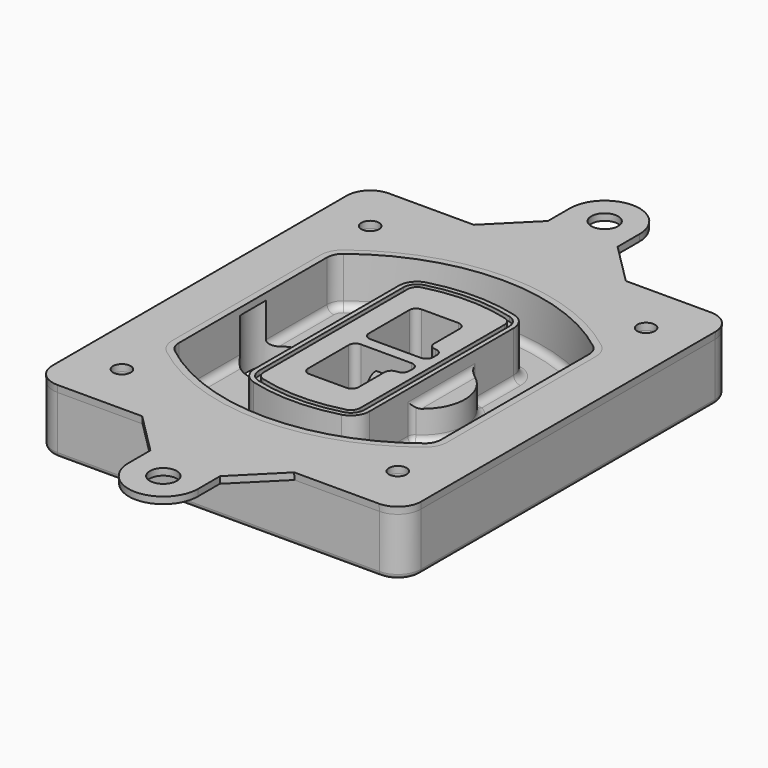
from build123d import *

# Parameters (mm, degrees)
F0_R      = 4
F1_DEPTH  = 25
F2_DEPTH  = 3
F3_DEPTH  = 18
F5_DEPTH  = 21
F6_DEPTH  = 2
F8_DEPTH  = 20
F9_DEPTH  = 16
F10_DEPTH = 25
F7_R      = 6
F7_R_2    = 4
F11_DEPTH = 6
F13_DEPTH = 9
F14_R     = 3
F15_R     = 2
F16_R     = 6
F16_R_2   = 4
F17_DEPTH = 3
F17_TAPER = -3


with BuildPart() as f1:
    # F0 (on Top) → F1 (new body)
    with BuildSketch(Plane.XY):
        with BuildLine():
            ThreePointArc((-80, -80), (-77.0710678119, -87.0710678119), (-70, -90))
            Line((-70, -90), (70, -90))
            ThreePointArc((70, -90), (77.0710678119, -87.0710678119), (80, -80))
            Line((80, -80), (80, 80))
            ThreePointArc((80, 80), (77.0710678119, 87.0710678119), (70, 90))
            Line((70, 90), (-70, 90))
            ThreePointArc((-70, 90), (-77.0710678119, 87.0710678119), (-80, 80))
            Line((-80, 80), (-80, -80))
        make_face()
        with Locations((-60, -67.5)):
            Circle(F0_R, mode=Mode.SUBTRACT)
        with Locations((60, -67.5)):
            Circle(F0_R, mode=Mode.SUBTRACT)
        with Locations((-60, 67.5)):
            Circle(F0_R, mode=Mode.SUBTRACT)
        with BuildLine():
            ThreePointArc((-64, 40.2934422872), (-62.5820384798, 46.4328484224), (-58.6153846154, 51.3286200352))
            ThreePointArc((-58.6153846154, 51.3286200352), (0, 71.5), (58.6153846154, 51.3286200352))
            ThreePointArc((58.6153846154, 51.3286200352), (62.5820384798, 46.4328484224), (64, 40.2934422872))
            Line((64, 40.2934422872), (64, -40.2934422872))
            ThreePointArc((64, -40.2934422872), (62.5820384798, -46.4328484224), (58.6153846154, -51.3286200352))
            ThreePointArc((58.6153846154, -51.3286200352), (0, -71.5), (-58.6153846154, -51.3286200352))
            ThreePointArc((-58.6153846154, -51.3286200352), (-62.5820384798, -46.4328484224), (-64, -40.2934422872))
            Line((-64, -40.2934422872), (-64, 40.2934422872))
        make_face(mode=Mode.SUBTRACT)
        with Locations((60, 67.5)):
            Circle(F0_R, mode=Mode.SUBTRACT)
        with BuildLine():
            ThreePointArc((58.6153846154, 51.3286200352), (0, 71.5), (-58.6153846154, 51.3286200352))
            ThreePointArc((-58.6153846154, 51.3286200352), (-62.5820384798, 46.4328484224), (-64, 40.2934422872))
            Line((-64, 40.2934422872), (-64, -40.2934422872))
            ThreePointArc((-64, -40.2934422872), (-62.5820384798, -46.4328484224), (-58.6153846154, -51.3286200352))
            ThreePointArc((-58.6153846154, -51.3286200352), (0, -71.5), (58.6153846154, -51.3286200352))
            ThreePointArc((58.6153846154, -51.3286200352), (62.5820384798, -46.4328484224), (64, -40.2934422872))
            Line((64, -40.2934422872), (64, 40.2934422872))
            ThreePointArc((64, 40.2934422872), (62.5820384798, 46.4328484224), (58.6153846154, 51.3286200352))
        make_face()
        with BuildLine():
            Line((-60, -40.2934422872), (-60, 40.2934422872))
            ThreePointArc((-60, 40.2934422872), (-58.9871703427, 44.6787323838), (-56.1538461538, 48.1757121072))
            ThreePointArc((-56.1538461538, 48.1757121072), (0, 67.5), (56.1538461538, 48.1757121072))
            ThreePointArc((56.1538461538, 48.1757121072), (58.9871703427, 44.6787323838), (60, 40.2934422872))
            Line((60, 40.2934422872), (60, -40.2934422872))
            ThreePointArc((60, -40.2934422872), (58.9871703427, -44.6787323838), (56.1538461538, -48.1757121072))
            ThreePointArc((56.1538461538, -48.1757121072), (0, -67.5), (-56.1538461538, -48.1757121072))
            ThreePointArc((-56.1538461538, -48.1757121072), (-58.9871703427, -44.6787323838), (-60, -40.2934422872))
        make_face(mode=Mode.SUBTRACT)
        with BuildLine():
            ThreePointArc((-56.1538461538, 48.1757121072), (-58.9871703427, 44.6787323838), (-60, 40.2934422872))
            Line((-60, 40.2934422872), (-60, -40.2934422872))
            ThreePointArc((-60, -40.2934422872), (-58.9871703427, -44.6787323838), (-56.1538461538, -48.1757121072))
            ThreePointArc((-56.1538461538, -48.1757121072), (0, -67.5), (56.1538461538, -48.1757121072))
            ThreePointArc((56.1538461538, -48.1757121072), (58.9871703427, -44.6787323838), (60, -40.2934422872))
            Line((60, -40.2934422872), (60, 40.2934422872))
            ThreePointArc((60, 40.2934422872), (58.9871703427, 44.6787323838), (56.1538461538, 48.1757121072))
            ThreePointArc((56.1538461538, 48.1757121072), (0, 67.5), (-56.1538461538, 48.1757121072))
        make_face()
        with BuildLine():
            ThreePointArc((54.3076923077, 45.8110311612), (56.2910192399, 43.3631453548), (57, 40.2934422872))
            Line((57, 40.2934422872), (57, -40.2934422872))
            ThreePointArc((57, -40.2934422872), (56.2910192399, -43.3631453548), (54.3076923077, -45.8110311612))
            ThreePointArc((54.3076923077, -45.8110311612), (0, -64.5), (-54.3076923077, -45.8110311612))
            ThreePointArc((-54.3076923077, -45.8110311612), (-56.2910192399, -43.3631453548), (-57, -40.2934422872))
            Line((-57, -40.2934422872), (-57, 40.2934422872))
            ThreePointArc((-57, 40.2934422872), (-56.2910192399, 43.3631453548), (-54.3076923077, 45.8110311612))
            ThreePointArc((-54.3076923077, 45.8110311612), (0, 64.5), (54.3076923077, 45.8110311612))
        make_face(mode=Mode.SUBTRACT)
        with BuildLine():
            Line((57, -40.2934422872), (57, 40.2934422872))
            ThreePointArc((57, 40.2934422872), (56.2910192399, 43.3631453548), (54.3076923077, 45.8110311612))
            ThreePointArc((54.3076923077, 45.8110311612), (0, 64.5), (-54.3076923077, 45.8110311612))
            ThreePointArc((-54.3076923077, 45.8110311612), (-56.2910192399, 43.3631453548), (-57, 40.2934422872))
            Line((-57, 40.2934422872), (-57, -40.2934422872))
            ThreePointArc((-57, -40.2934422872), (-56.2910192399, -43.3631453548), (-54.3076923077, -45.8110311612))
            ThreePointArc((-54.3076923077, -45.8110311612), (0, -64.5), (54.3076923077, -45.8110311612))
            ThreePointArc((54.3076923077, -45.8110311612), (56.2910192399, -43.3631453548), (57, -40.2934422872))
        make_face()
    extrude(amount=-F1_DEPTH)

    # F0 (on Top) → F2 (join)
    with BuildSketch(Plane.XY):
        with BuildLine():
            ThreePointArc((-56.1538461538, 48.1757121072), (-58.9871703427, 44.6787323838), (-60, 40.2934422872))
            Line((-60, 40.2934422872), (-60, -40.2934422872))
            ThreePointArc((-60, -40.2934422872), (-58.9871703427, -44.6787323838), (-56.1538461538, -48.1757121072))
            ThreePointArc((-56.1538461538, -48.1757121072), (0, -67.5), (56.1538461538, -48.1757121072))
            ThreePointArc((56.1538461538, -48.1757121072), (58.9871703427, -44.6787323838), (60, -40.2934422872))
            Line((60, -40.2934422872), (60, 40.2934422872))
            ThreePointArc((60, 40.2934422872), (58.9871703427, 44.6787323838), (56.1538461538, 48.1757121072))
            ThreePointArc((56.1538461538, 48.1757121072), (0, 67.5), (-56.1538461538, 48.1757121072))
        make_face()
        with BuildLine():
            ThreePointArc((54.3076923077, 45.8110311612), (56.2910192399, 43.3631453548), (57, 40.2934422872))
            Line((57, 40.2934422872), (57, -40.2934422872))
            ThreePointArc((57, -40.2934422872), (56.2910192399, -43.3631453548), (54.3076923077, -45.8110311612))
            ThreePointArc((54.3076923077, -45.8110311612), (0, -64.5), (-54.3076923077, -45.8110311612))
            ThreePointArc((-54.3076923077, -45.8110311612), (-56.2910192399, -43.3631453548), (-57, -40.2934422872))
            Line((-57, -40.2934422872), (-57, 40.2934422872))
            ThreePointArc((-57, 40.2934422872), (-56.2910192399, 43.3631453548), (-54.3076923077, 45.8110311612))
            ThreePointArc((-54.3076923077, 45.8110311612), (0, 64.5), (54.3076923077, 45.8110311612))
        make_face(mode=Mode.SUBTRACT)
    extrude(amount=F2_DEPTH)

    # F0 (on Top) → F3 (cut)
    with BuildSketch(Plane.XY):
        with BuildLine():
            Line((57, -40.2934422872), (57, 40.2934422872))
            ThreePointArc((57, 40.2934422872), (56.2910192399, 43.3631453548), (54.3076923077, 45.8110311612))
            ThreePointArc((54.3076923077, 45.8110311612), (0, 64.5), (-54.3076923077, 45.8110311612))
            ThreePointArc((-54.3076923077, 45.8110311612), (-56.2910192399, 43.3631453548), (-57, 40.2934422872))
            Line((-57, 40.2934422872), (-57, -40.2934422872))
            ThreePointArc((-57, -40.2934422872), (-56.2910192399, -43.3631453548), (-54.3076923077, -45.8110311612))
            ThreePointArc((-54.3076923077, -45.8110311612), (0, -64.5), (54.3076923077, -45.8110311612))
            ThreePointArc((54.3076923077, -45.8110311612), (56.2910192399, -43.3631453548), (57, -40.2934422872))
        make_face()
    extrude(amount=-F3_DEPTH, mode=Mode.SUBTRACT)

    # F4 (on face) → F5 (join, through all)
    with BuildSketch(Plane.XY.offset(3)):
        with BuildLine():
            ThreePointArc((-25, -39.2465276821), (-23.3511545998, -44.1109737193), (-19.0842911877, -46.9702398883))
            ThreePointArc((-19.0842911877, -46.9702398883), (0, -49.5), (19.0842911877, -46.9702398883))
            ThreePointArc((19.0842911877, -46.9702398883), (23.3511545998, -44.1109737193), (25, -39.2465276821))
            Line((25, -39.2465276821), (25, 39.2465276821))
            ThreePointArc((25, 39.2465276821), (23.3511545998, 44.1109737193), (19.0842911877, 46.9702398883))
            ThreePointArc((19.0842911877, 46.9702398883), (0, 49.5), (-19.0842911877, 46.9702398883))
            ThreePointArc((-19.0842911877, 46.9702398883), (-23.3511545998, 44.1109737193), (-25, 39.2465276821))
            Line((-25, 39.2465276821), (-25, -39.2465276821))
        make_face()
        with BuildLine():
            ThreePointArc((18.5632183908, 45.0393118368), (21.7633659499, 42.89486221), (23, 39.2465276821))
            Line((23, 39.2465276821), (23, -39.2465276821))
            ThreePointArc((23, -39.2465276821), (21.7633659499, -42.89486221), (18.5632183908, -45.0393118368))
            ThreePointArc((18.5632183908, -45.0393118368), (0, -47.5), (-18.5632183908, -45.0393118368))
            ThreePointArc((-18.5632183908, -45.0393118368), (-21.7633659499, -42.89486221), (-23, -39.2465276821))
            Line((-23, -39.2465276821), (-23, 39.2465276821))
            ThreePointArc((-23, 39.2465276821), (-21.7633659499, 42.89486221), (-18.5632183908, 45.0393118368))
            ThreePointArc((-18.5632183908, 45.0393118368), (0, 47.5), (18.5632183908, 45.0393118368))
        make_face(mode=Mode.SUBTRACT)
        with BuildLine():
            Line((23, -39.2465276821), (23, 39.2465276821))
            ThreePointArc((23, 39.2465276821), (21.7633659499, 42.89486221), (18.5632183908, 45.0393118368))
            ThreePointArc((18.5632183908, 45.0393118368), (0, 47.5), (-18.5632183908, 45.0393118368))
            ThreePointArc((-18.5632183908, 45.0393118368), (-21.7633659499, 42.89486221), (-23, 39.2465276821))
            Line((-23, 39.2465276821), (-23, -39.2465276821))
            ThreePointArc((-23, -39.2465276821), (-21.7633659499, -42.89486221), (-18.5632183908, -45.0393118368))
            ThreePointArc((-18.5632183908, -45.0393118368), (0, -47.5), (18.5632183908, -45.0393118368))
            ThreePointArc((18.5632183908, -45.0393118368), (21.7633659499, -42.89486221), (23, -39.2465276821))
        make_face()
        with BuildLine():
            ThreePointArc((18.0421455939, 43.1083837852), (20.1755772999, 41.6787507007), (21, 39.2465276821))
            Line((21, 39.2465276821), (21, -39.2465276821))
            ThreePointArc((21, -39.2465276821), (20.1755772999, -41.6787507007), (18.0421455939, -43.1083837852))
            ThreePointArc((18.0421455939, -43.1083837852), (0, -45.5), (-18.0421455939, -43.1083837852))
            ThreePointArc((-18.0421455939, -43.1083837852), (-20.1755772999, -41.6787507007), (-21, -39.2465276821))
            Line((-21, -39.2465276821), (-21, 39.2465276821))
            ThreePointArc((-21, 39.2465276821), (-20.1755772999, 41.6787507007), (-18.0421455939, 43.1083837852))
            ThreePointArc((-18.0421455939, 43.1083837852), (0, 45.5), (18.0421455939, 43.1083837852))
        make_face(mode=Mode.SUBTRACT)
        with BuildLine():
            Line((21, -39.2465276821), (21, 39.2465276821))
            ThreePointArc((21, 39.2465276821), (20.1755772999, 41.6787507007), (18.0421455939, 43.1083837852))
            ThreePointArc((18.0421455939, 43.1083837852), (0, 45.5), (-18.0421455939, 43.1083837852))
            ThreePointArc((-18.0421455939, 43.1083837852), (-20.1755772999, 41.6787507007), (-21, 39.2465276821))
            Line((-21, 39.2465276821), (-21, -39.2465276821))
            ThreePointArc((-21, -39.2465276821), (-20.1755772999, -41.6787507007), (-18.0421455939, -43.1083837852))
            ThreePointArc((-18.0421455939, -43.1083837852), (0, -45.5), (18.0421455939, -43.1083837852))
            ThreePointArc((18.0421455939, -43.1083837852), (20.1755772999, -41.6787507007), (21, -39.2465276821))
        make_face()
        with BuildLine():
            Line((-8, -2.5), (14, -2.5))
            ThreePointArc((14, -2.5), (16.1213203436, -3.3786796564), (17, -5.5))
            Line((17, -5.5), (17, -7.5))
            ThreePointArc((17, -7.5), (16.1213203436, -9.6213203436), (14, -10.5))
            ThreePointArc((14, -10.5), (11.8786796564, -11.3786796564), (11, -13.5))
            Line((11, -13.5), (11, -27.5))
            ThreePointArc((11, -27.5), (10.1213203436, -29.6213203436), (8, -30.5))
            Line((8, -30.5), (-8, -30.5))
            ThreePointArc((-8, -30.5), (-10.1213203436, -29.6213203436), (-11, -27.5))
            Line((-11, -27.5), (-11, -5.5))
            ThreePointArc((-11, -5.5), (-10.1213203436, -3.3786796564), (-8, -2.5))
        make_face(mode=Mode.SUBTRACT)
        with BuildLine():
            ThreePointArc((-8, 2.5), (-10.1213203436, 3.3786796564), (-11, 5.5))
            Line((-11, 5.5), (-11, 27.5))
            ThreePointArc((-11, 27.5), (-10.1213203436, 29.6213203436), (-8, 30.5))
            Line((-8, 30.5), (8, 30.5))
            ThreePointArc((8, 30.5), (10.1213203436, 29.6213203436), (11, 27.5))
            Line((11, 27.5), (11, 13.5))
            ThreePointArc((11, 13.5), (11.8786796564, 11.3786796564), (14, 10.5))
            ThreePointArc((14, 10.5), (16.1213203436, 9.6213203436), (17, 7.5))
            Line((17, 7.5), (17, 5.5))
            ThreePointArc((17, 5.5), (16.1213203436, 3.3786796564), (14, 2.5))
            Line((14, 2.5), (-8, 2.5))
        make_face(mode=Mode.SUBTRACT)
    extrude(amount=-F5_DEPTH)

    # F4 (on face) → F6 (cut)
    with BuildSketch(Plane.XY.offset(3)):
        with BuildLine():
            Line((23, -39.2465276821), (23, 39.2465276821))
            ThreePointArc((23, 39.2465276821), (21.7633659499, 42.89486221), (18.5632183908, 45.0393118368))
            ThreePointArc((18.5632183908, 45.0393118368), (0, 47.5), (-18.5632183908, 45.0393118368))
            ThreePointArc((-18.5632183908, 45.0393118368), (-21.7633659499, 42.89486221), (-23, 39.2465276821))
            Line((-23, 39.2465276821), (-23, -39.2465276821))
            ThreePointArc((-23, -39.2465276821), (-21.7633659499, -42.89486221), (-18.5632183908, -45.0393118368))
            ThreePointArc((-18.5632183908, -45.0393118368), (0, -47.5), (18.5632183908, -45.0393118368))
            ThreePointArc((18.5632183908, -45.0393118368), (21.7633659499, -42.89486221), (23, -39.2465276821))
        make_face()
        with BuildLine():
            ThreePointArc((18.0421455939, 43.1083837852), (20.1755772999, 41.6787507007), (21, 39.2465276821))
            Line((21, 39.2465276821), (21, -39.2465276821))
            ThreePointArc((21, -39.2465276821), (20.1755772999, -41.6787507007), (18.0421455939, -43.1083837852))
            ThreePointArc((18.0421455939, -43.1083837852), (0, -45.5), (-18.0421455939, -43.1083837852))
            ThreePointArc((-18.0421455939, -43.1083837852), (-20.1755772999, -41.6787507007), (-21, -39.2465276821))
            Line((-21, -39.2465276821), (-21, 39.2465276821))
            ThreePointArc((-21, 39.2465276821), (-20.1755772999, 41.6787507007), (-18.0421455939, 43.1083837852))
            ThreePointArc((-18.0421455939, 43.1083837852), (0, 45.5), (18.0421455939, 43.1083837852))
        make_face(mode=Mode.SUBTRACT)
    extrude(amount=-F6_DEPTH, mode=Mode.SUBTRACT)

    # F7 (on face) → F8 (join)
    with BuildSketch(Plane(origin=(0, 0, -25), x_dir=(1, 0, 0), z_dir=(0, 0, -1))):
        with BuildLine():
            ThreePointArc((3.28842436, 0), (16.7567035675, 13.4682792075), (30.224982775, 0))
            Line((30.224982775, 0), (35.224982775, 0))
            ThreePointArc((35.224982775, 0), (16.7567035675, 18.4682792075), (-1.71157564, 0))
            Line((-1.71157564, 0), (3.28842436, 0))
        make_face()
        with BuildLine():
            Line((3.28842436, 0), (30.224982775, 0))
            ThreePointArc((30.224982775, 0), (16.7567035675, 13.4682792075), (3.28842436, 0))
        make_face()
        with BuildLine():
            ThreePointArc((3.28842436, 0), (16.7567035675, -13.4682792075), (30.224982775, 0))
            Line((30.224982775, 0), (3.28842436, 0))
        make_face()
        with BuildLine():
            Line((35.224982775, 0), (30.224982775, 0))
            ThreePointArc((30.224982775, 0), (16.7567035675, -13.4682792075), (3.28842436, 0))
            Line((3.28842436, 0), (-1.71157564, 0))
            ThreePointArc((-1.71157564, 0), (16.7567035675, -18.4682792075), (35.224982775, 0))
        make_face()
    extrude(amount=-F8_DEPTH)

    # F7 (on face) → F9 (cut)
    with BuildSketch(Plane(origin=(0, 0, -25), x_dir=(1, 0, 0), z_dir=(0, 0, -1))):
        with BuildLine():
            Line((3.28842436, 0), (30.224982775, 0))
            ThreePointArc((30.224982775, 0), (16.7567035675, 13.4682792075), (3.28842436, 0))
        make_face()
        with BuildLine():
            ThreePointArc((3.28842436, 0), (16.7567035675, -13.4682792075), (30.224982775, 0))
            Line((30.224982775, 0), (3.28842436, 0))
        make_face()
    extrude(amount=-F9_DEPTH, mode=Mode.SUBTRACT)

    # F7 (on face) → F10 (cut)
    with BuildSketch(Plane(origin=(0, 0, -25), x_dir=(1, 0, 0), z_dir=(0, 0, -1))):
        with BuildLine():
            Line((-59.0318229325, 0), (-32.0952645175, 0))
            ThreePointArc((-32.0952645175, 0), (-45.563543725, 13.4682792075), (-59.0318229325, 0))
        make_face()
        with BuildLine():
            ThreePointArc((-59.0318229325, 0), (-45.563543725, -13.4682792075), (-32.0952645175, 0))
            Line((-32.0952645175, 0), (-59.0318229325, 0))
        make_face()
    extrude(amount=-F10_DEPTH, mode=Mode.SUBTRACT)

    # F7 (on face) → F11 (cut)
    with BuildSketch(Plane(origin=(0, 0, -25), x_dir=(1, 0, 0), z_dir=(0, 0, -1))):
        with Locations((60, -67.5)):
            Circle(F7_R)
        with Locations((60, -67.5)):
            Circle(F7_R_2, mode=Mode.SUBTRACT)
        with Locations((60, -67.5)):
            Circle(F7_R)
        with Locations((60, -67.5)):
            Circle(F7_R_2, mode=Mode.SUBTRACT)
        with Locations((-60, -67.5)):
            Circle(F7_R)
        with Locations((-60, -67.5)):
            Circle(F7_R_2, mode=Mode.SUBTRACT)
        with Locations((-60, -67.5)):
            Circle(F7_R)
        with Locations((-60, -67.5)):
            Circle(F7_R_2, mode=Mode.SUBTRACT)
        with Locations((-60, 67.5)):
            Circle(F7_R)
        with Locations((-60, 67.5)):
            Circle(F7_R_2, mode=Mode.SUBTRACT)
        with Locations((-60, 67.5)):
            Circle(F7_R)
        with Locations((-60, 67.5)):
            Circle(F7_R_2, mode=Mode.SUBTRACT)
        with Locations((60, 67.5)):
            Circle(F7_R)
        with Locations((60, 67.5)):
            Circle(F7_R_2, mode=Mode.SUBTRACT)
        with Locations((60, 67.5)):
            Circle(F7_R)
        with Locations((60, 67.5)):
            Circle(F7_R_2, mode=Mode.SUBTRACT)
    extrude(amount=-F11_DEPTH, mode=Mode.SUBTRACT)

    # F12 (on face) → F13 (cut, through all)
    with BuildSketch(Plane(origin=(0, 0, -9), x_dir=(1, 0, 0), z_dir=(0, 0, -1))):
        with BuildLine():
            Line((11, 13.5), (11, 17.5481537753))
            ThreePointArc((11, 17.5481537753), (2.5696536419, 11.8239143813), (-1.5415842455, 2.5))
            Line((-1.5415842455, 2.5), (3.5224848595, 2.5))
            ThreePointArc((3.5224848595, 2.5), (6.1857188154, 8.3455872281), (11.2536447004, 12.2927168648))
            ThreePointArc((11.2536447004, 12.2927168648), (11.0640958889, 12.8831798879), (11, 13.5))
        make_face()
        with BuildLine():
            ThreePointArc((11.2536447004, -12.2927168648), (6.1857188154, -8.3455872281), (3.5224848595, -2.5))
            Line((3.5224848595, -2.5), (-1.5415842455, -2.5))
            ThreePointArc((-1.5415842455, -2.5), (2.5696536419, -11.8239143813), (11, -17.5481537753))
            Line((11, -17.5481537753), (11, -13.5))
            ThreePointArc((11, -13.5), (11.0640958889, -12.8831798879), (11.2536447004, -12.2927168648))
        make_face()
        with BuildLine():
            ThreePointArc((11.2536447004, 12.2927168648), (6.1857188154, 8.3455872281), (3.5224848595, 2.5))
            Line((3.5224848595, 2.5), (14, 2.5))
            ThreePointArc((14, 2.5), (16.1213203436, 3.3786796564), (17, 5.5))
            Line((17, 5.5), (17, 7.5))
            ThreePointArc((17, 7.5), (16.1213203436, 9.6213203436), (14, 10.5))
            ThreePointArc((14, 10.5), (12.3601599782, 10.9878446101), (11.2536447004, 12.2927168648))
        make_face()
        with BuildLine():
            Line((14, -2.5), (3.5224848595, -2.5))
            ThreePointArc((3.5224848595, -2.5), (6.1857188154, -8.3455872281), (11.2536447004, -12.2927168648))
            ThreePointArc((11.2536447004, -12.2927168648), (12.3601599782, -10.9878446101), (14, -10.5))
            ThreePointArc((14, -10.5), (16.1213203436, -9.6213203436), (17, -7.5))
            Line((17, -7.5), (17, -5.5))
            ThreePointArc((17, -5.5), (16.1213203436, -3.3786796564), (14, -2.5))
        make_face()
    extrude(amount=F13_DEPTH, mode=Mode.SUBTRACT)

    # F14
    f14_edges = [f1.edges().sort_by_distance(p)[0] for p in [
        (-57, -23.703476, -18),
        (-57, 23.703476, -18),
        (25, 0, -5),
        (25, 16.526506, -11.5),
        (25, -16.526506, -11.5),
        (25, -27.886517, -18),
        (35.224983, 0, -18),
    ]]
    fillet(f14_edges, radius=F14_R)

    # F15
    f15_edges = [f1.edges().sort_by_distance(p)[0] for p in [
        (0, -90, -25),
    ]]
    fillet(f15_edges, radius=F15_R)


with BuildPart() as f17:
    # F16 (on face) → F17 (new body, through all)
    with BuildSketch(Plane.XY):
        with BuildLine():
            Line((-15, 108), (-33, 90))
            Line((-33, 90), (33, 90))
            Line((33, 90), (15, 108))
            Line((15, 108), (15, 120))
            ThreePointArc((15, 120), (0, 135), (-15, 120))
            Line((-15, 120), (-15, 108))
        make_face()
        with Locations((0, 120)):
            Circle(F16_R, mode=Mode.SUBTRACT)
        with BuildLine():
            Line((-33, 90), (-70, 90))
            ThreePointArc((-70, 90), (-77.0710678119, 87.0710678119), (-80, 80))
            Line((-80, 80), (-80, -80))
            ThreePointArc((-80, -80), (-77.0710678119, -87.0710678119), (-70, -90))
            Line((-70, -90), (-33, -90))
            Line((-33, -90), (33, -90))
            Line((33, -90), (70, -90))
            ThreePointArc((70, -90), (77.0710678119, -87.0710678119), (80, -80))
            Line((80, -80), (80, 80))
            ThreePointArc((80, 80), (77.0710678119, 87.0710678119), (70, 90))
            Line((70, 90), (33, 90))
            Line((33, 90), (-33, 90))
        make_face()
        with Locations((-60, -67.5)):
            Circle(F16_R_2, mode=Mode.SUBTRACT)
        with Locations((60, -67.5)):
            Circle(F16_R_2, mode=Mode.SUBTRACT)
        with Locations((-60, 67.5)):
            Circle(F16_R_2, mode=Mode.SUBTRACT)
        with BuildLine():
            ThreePointArc((-56.1538461538, 48.1757121072), (0, 67.5), (56.1538461538, 48.1757121072))
            ThreePointArc((56.1538461538, 48.1757121072), (58.9871703427, 44.6787323838), (60, 40.2934422872))
            Line((60, 40.2934422872), (60, -40.2934422872))
            ThreePointArc((60, -40.2934422872), (58.9871703427, -44.6787323838), (56.1538461538, -48.1757121072))
            ThreePointArc((56.1538461538, -48.1757121072), (0, -67.5), (-56.1538461538, -48.1757121072))
            ThreePointArc((-56.1538461538, -48.1757121072), (-58.9871703427, -44.6787323838), (-60, -40.2934422872))
            Line((-60, -40.2934422872), (-60, 40.2934422872))
            ThreePointArc((-60, 40.2934422872), (-58.9871703427, 44.6787323838), (-56.1538461538, 48.1757121072))
        make_face(mode=Mode.SUBTRACT)
        with Locations((60, 67.5)):
            Circle(F16_R_2, mode=Mode.SUBTRACT)
        with BuildLine():
            Line((33, -90), (-33, -90))
            Line((-33, -90), (-15, -108))
            Line((-15, -108), (-15, -120))
            ThreePointArc((-15, -120), (0, -135), (15, -120))
            Line((15, -120), (15, -108))
            Line((15, -108), (33, -90))
        make_face()
        with Locations((0, -120)):
            Circle(F16_R, mode=Mode.SUBTRACT)
    extrude(amount=F17_DEPTH, taper=F17_TAPER)


solid = Compound([f1.part, f17.part])
